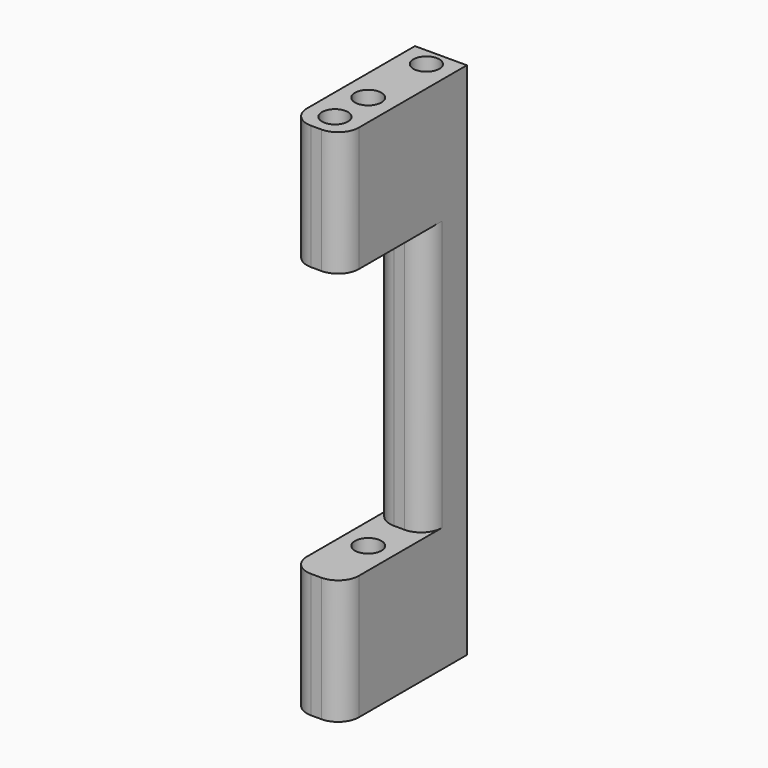
from build123d import *

# Parameters (mm, degrees)
F0_W     = 12.7
F0_H     = 38.1
F1_DEPTH = 127
F2_R     = 3.2385
F3_DEPTH = 152.4
F2_R_2   = 3.175
F4_DEPTH = 25.4
F5_R     = 3.175
F6_DEPTH = 25.4
F7_W     = 25.4
F7_H     = 66.04
F8_DEPTH = 25.4
F9_R     = 5.08


with BuildPart() as f1:
    # F0 (on Top) → F1 (new body)
    with BuildSketch(Plane.XY):
        with Locations((6.35, 19.05)):
            Rectangle(F0_W, F0_H)
    extrude(amount=F1_DEPTH)

    # F2 (on face) → F3 (cut)
    with BuildSketch(Plane.XY.offset(127)):
        with Locations((6.35, 15.875)):
            Circle(F2_R)
    extrude(amount=-F3_DEPTH, mode=Mode.SUBTRACT)

    # F2 (on face) → F4 (cut)
    with BuildSketch(Plane.XY.offset(127)):
        with Locations((6.35, 33.655)):
            Circle(F2_R_2)
        with Locations((6.35, 5.715)):
            Circle(F2_R_2)
    extrude(amount=-F4_DEPTH, mode=Mode.SUBTRACT)

    # F5 (on face) → F6 (cut)
    with BuildSketch(Plane(origin=(0, 0, 0), x_dir=(1, 0, 0), z_dir=(0, 0, -1))):
        with Locations((6.35, -4.445)):
            Circle(F5_R)
        with Locations((6.35, -32.385)):
            Circle(F5_R)
    extrude(amount=-F6_DEPTH, mode=Mode.SUBTRACT)

    # F7 (on face) → F8 (cut)
    with BuildSketch(Plane(origin=(0, 0, 0), x_dir=(0, -1, 0), z_dir=(-1, 0, 0))):
        with Locations((-12.7, 63.5)):
            Rectangle(F7_W, F7_H)
    extrude(amount=-F8_DEPTH, mode=Mode.SUBTRACT)

    # F9
    f9_edges = [f1.edges().sort_by_distance(p)[0] for p in [
        (12.7, 0, 15.24),
        (12.7, 0, 111.76),
        (0, 0, 15.24),
        (0, 0, 111.76),
        (12.7, 25.4, 63.5),
        (0, 25.4, 63.5),
    ]]
    fillet(f9_edges, radius=F9_R)


solid = f1.part
